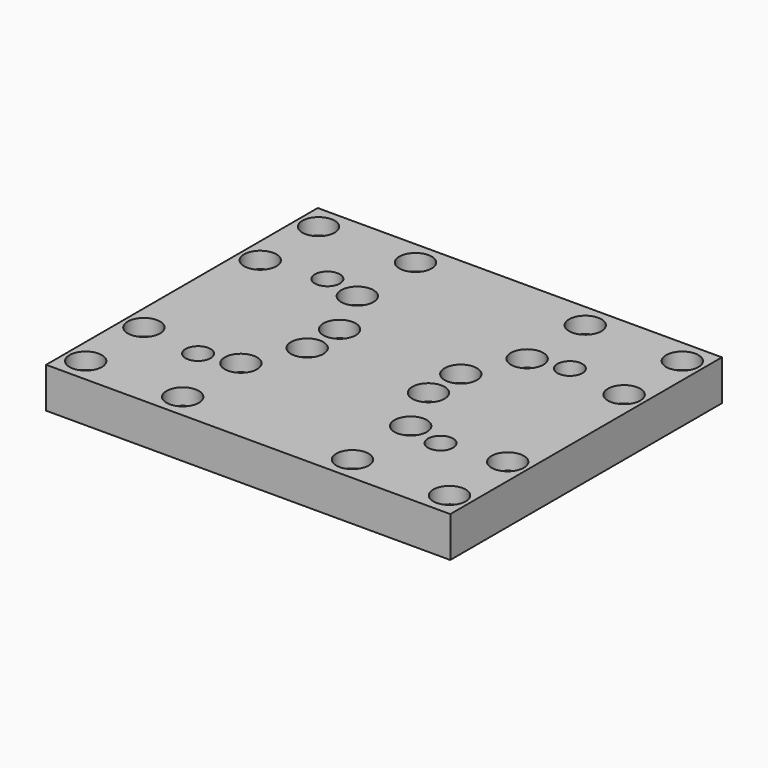
from build123d import *

# Parameters (mm, degrees)
SKETCH_W        = 100
SKETCH_H        = 84
PAD_DEPTH       = 10
SKETCH001_R     = 2.1
POCKET_DEPTH    = 10
SKETCH002_R     = 2.1
POCKET001_DEPTH = 10
SKETCH003_R     = 4
POCKET002_DEPTH = 4
SKETCH004_R     = 4
POCKET003_DEPTH = 4
SKETCH005_R     = 3.1
POCKET004_DEPTH = 10
SKETCH006_R     = 4.8
POCKET005_DEPTH = 5.2


with BuildPart() as part:
    # Sketch → Pad (new body)
    with BuildSketch(Plane.XY):
        with Locations((50, 42)):
            Rectangle(SKETCH_W, SKETCH_H)
    extrude(amount=PAD_DEPTH)

    # Sketch001 (on Face6 of Pad) → Pocket (cut)
    with BuildSketch(Plane.XY.offset(10)):
        with Locations((5, 6)):
            Circle(SKETCH001_R)
        with Locations((29, 6)):
            Circle(SKETCH001_R)
        with Locations((71, 6)):
            Circle(SKETCH001_R)
        with Locations((95, 6)):
            Circle(SKETCH001_R)
        with Locations((5, 24)):
            Circle(SKETCH001_R)
        with Locations((29, 24)):
            Circle(SKETCH001_R)
        with Locations((71, 24)):
            Circle(SKETCH001_R)
        with Locations((95, 24)):
            Circle(SKETCH001_R)
        with Locations((5, 78)):
            Circle(SKETCH001_R)
        with Locations((29, 78)):
            Circle(SKETCH001_R)
        with Locations((5, 60)):
            Circle(SKETCH001_R)
        with Locations((29, 60)):
            Circle(SKETCH001_R)
        with Locations((71, 78)):
            Circle(SKETCH001_R)
        with Locations((95, 78)):
            Circle(SKETCH001_R)
        with Locations((71, 60)):
            Circle(SKETCH001_R)
        with Locations((95, 60)):
            Circle(SKETCH001_R)
    extrude(amount=-POCKET_DEPTH, mode=Mode.SUBTRACT)

    # Sketch002 (on Face5 of Pocket) → Pocket001 (cut)
    with BuildSketch(Plane.XY.offset(10)):
        with Locations((35, 47)):
            Circle(SKETCH002_R)
        with Locations((65, 47)):
            Circle(SKETCH002_R)
        with Locations((35, 37)):
            Circle(SKETCH002_R)
        with Locations((65, 37)):
            Circle(SKETCH002_R)
    extrude(amount=-POCKET001_DEPTH, mode=Mode.SUBTRACT)

    # Sketch003 (on Face5 of Pocket001) → Pocket002 (cut)
    with BuildSketch(Plane.XY.offset(10)):
        with Locations((35, 47)):
            Circle(SKETCH003_R)
        with Locations((65, 47)):
            Circle(SKETCH003_R)
        with Locations((35, 37)):
            Circle(SKETCH003_R)
        with Locations((65, 37)):
            Circle(SKETCH003_R)
    extrude(amount=-POCKET002_DEPTH, mode=Mode.SUBTRACT)

    # Sketch004 (on Face5 of Pocket002) → Pocket003 (cut)
    with BuildSketch(Plane.XY.offset(10)):
        with Locations((5, 78)):
            Circle(SKETCH004_R)
        with Locations((29, 78)):
            Circle(SKETCH004_R)
        with Locations((5, 60)):
            Circle(SKETCH004_R)
        with Locations((29, 60)):
            Circle(SKETCH004_R)
        with Locations((5, 24)):
            Circle(SKETCH004_R)
        with Locations((29, 24)):
            Circle(SKETCH004_R)
        with Locations((5, 6)):
            Circle(SKETCH004_R)
        with Locations((29, 6)):
            Circle(SKETCH004_R)
        with Locations((71, 78)):
            Circle(SKETCH004_R)
        with Locations((71, 60)):
            Circle(SKETCH004_R)
        with Locations((95, 78)):
            Circle(SKETCH004_R)
        with Locations((95, 60)):
            Circle(SKETCH004_R)
        with Locations((71, 24)):
            Circle(SKETCH004_R)
        with Locations((95, 24)):
            Circle(SKETCH004_R)
        with Locations((71, 6)):
            Circle(SKETCH004_R)
        with Locations((95, 6)):
            Circle(SKETCH004_R)
    extrude(amount=-POCKET003_DEPTH, mode=Mode.SUBTRACT)

    # Sketch005 (on Face5 of Pocket003) → Pocket004 (cut)
    with BuildSketch(Plane.XY.offset(10)):
        with Locations((20, 62)):
            Circle(SKETCH005_R)
        with Locations((80, 62)):
            Circle(SKETCH005_R)
        with Locations((20, 22)):
            Circle(SKETCH005_R)
        with Locations((80, 22)):
            Circle(SKETCH005_R)
    extrude(amount=-POCKET004_DEPTH, mode=Mode.SUBTRACT)

    # Sketch006 (on Face4 of Pocket004) → Pocket005 (cut)
    with BuildSketch(Plane(origin=(0, 0, 0), x_dir=(1, 0, 0), z_dir=(0, 0, -1))):
        with Locations((20, -22)):
            Circle(SKETCH006_R)
        with Locations((20, -62)):
            Circle(SKETCH006_R)
        with Locations((80, -62)):
            Circle(SKETCH006_R)
        with Locations((80, -22)):
            Circle(SKETCH006_R)
    extrude(amount=-POCKET005_DEPTH, mode=Mode.SUBTRACT)


solid = part.part
